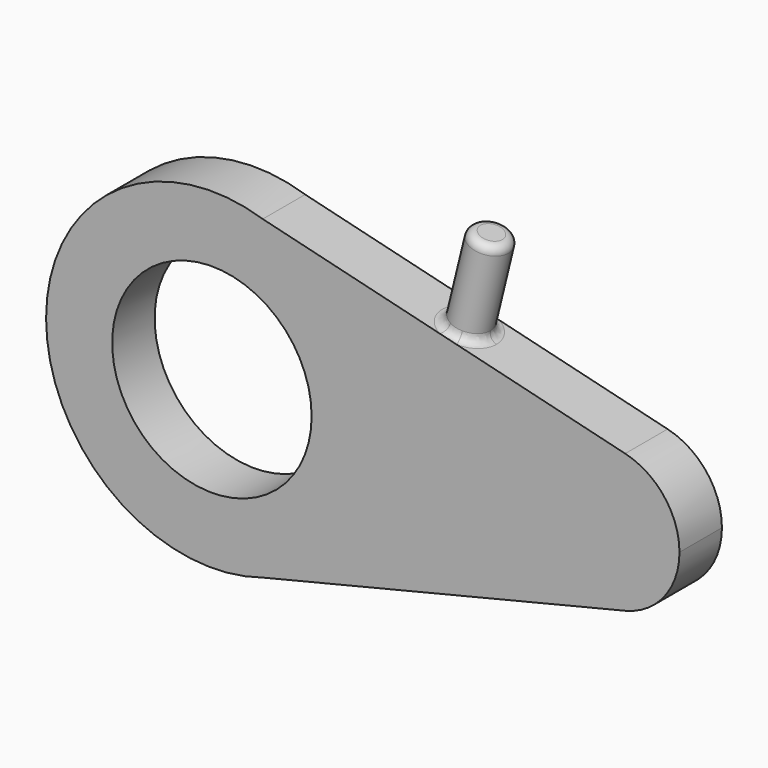
from build123d import *

# Parameters (mm, degrees)
F0_R     = 30.553649
F1_DEPTH = 8.128
F2_R     = 6.018054
F3_DEPTH = 28.448
F4_R     = 2.54


with BuildPart() as f1:
    # F0 (on Front) → F1 (new body, symmetric)
    with BuildSketch(Plane.XZ):
        with BuildLine():
            ThreePointArc((15.581804, -48.351291), (41.062122, -29.908898), (50.8, 0))
            ThreePointArc((50.8, 0), (41.062122, 29.908898), (15.581804, 48.351291))
            ThreePointArc((15.581804, 48.351291), (-50.8, 0), (15.581804, -48.351291))
        make_face()
        Circle(F0_R, mode=Mode.SUBTRACT)
        with BuildLine():
            ThreePointArc((15.581804, 48.351291), (41.062122, 29.908898), (50.8, 0))
            ThreePointArc((50.8, 0), (41.062122, -29.908898), (15.581804, -48.351291))
            Line((15.581804, -48.351291), (126.609508, -21.197307))
            ThreePointArc((126.609508, -21.197307), (99.603244, 0), (126.609508, 21.197307))
            Line((126.609508, 21.197307), (15.581804, 48.351291))
        make_face()
        with BuildLine():
            ThreePointArc((143.247345, 0), (138.591134, 13.473524), (126.609508, 21.197307))
            ThreePointArc((126.609508, 21.197307), (99.603244, 0), (126.609508, -21.197307))
            ThreePointArc((126.609508, -21.197307), (138.591134, -13.473524), (143.247345, 0))
        make_face()
    extrude(amount=F1_DEPTH, both=True)

    # F2 (on face) → F3 (join)
    with BuildSketch(Plane(origin=(12.037263, 0, 49.218178), x_dir=(0.971371, 0, -0.237568), z_dir=(0.237568, 0, 0.971371))):
        with Locations((62.131673, 0)):
            Circle(F2_R)
    extrude(amount=F3_DEPTH)

    # F4
    f4_edges = [f1.edges().sort_by_distance(p)[0] for p in [
        (73.302729, 0, 63.520958),
        (66.544404, 0, 35.887396),
    ]]
    fillet(f4_edges, radius=F4_R)


solid = f1.part
